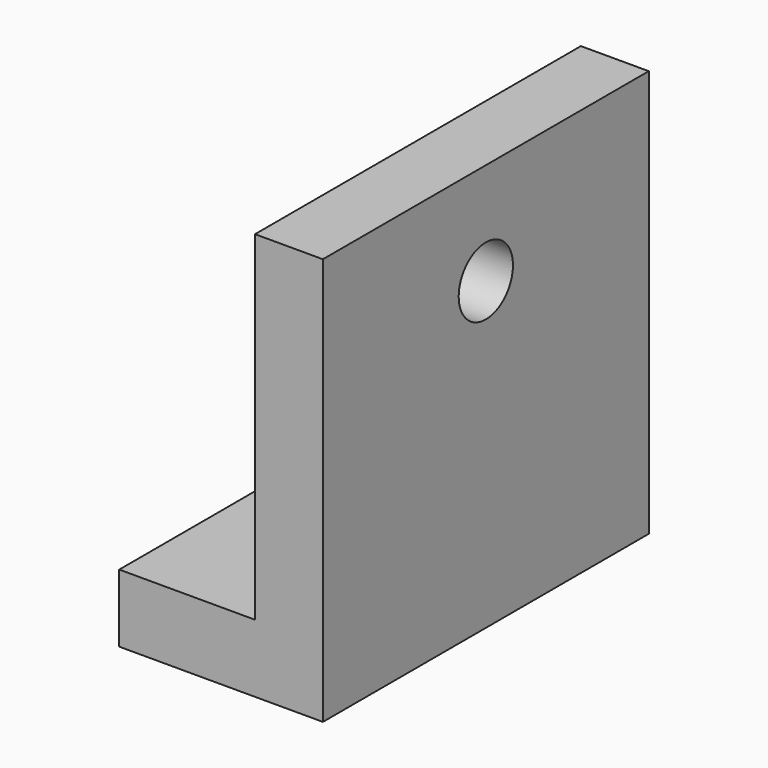
from build123d import *

# Parameters (mm, degrees)
F1_DEPTH = 76.2
F2_R     = 12.7
F3_DEPTH = 25.401
F2_R_2   = 19.05
F4_DEPTH = 6.35
F6_DEPTH = 25.401


with BuildPart() as f1:
    # F0 (on Front) → F1 (new body, symmetric)
    with BuildSketch(Plane.XZ):
        Polygon((-76.2, 0), (0, 0), (0, 152.4), (-25.4, 152.4), (-25.4, 25.4), (-76.2, 25.4), align=None)
    extrude(amount=F1_DEPTH, both=True)

    # F2 (on face) → F3 (cut, through all)
    with BuildSketch(Plane(origin=(-25.4, 0, 0), x_dir=(0, -1, 0), z_dir=(-1, 0, 0))):
        with Locations((0, 114.3)):
            Circle(F2_R)
    extrude(amount=-F3_DEPTH, mode=Mode.SUBTRACT)

    # F2 (on face) → F4 (cut)
    with BuildSketch(Plane(origin=(-25.4, 0, 0), x_dir=(0, -1, 0), z_dir=(-1, 0, 0))):
        with Locations((0, 114.3)):
            Circle(F2_R_2)
        with Locations((0, 114.3)):
            Circle(F2_R, mode=Mode.SUBTRACT)
    extrude(amount=-F4_DEPTH, mode=Mode.SUBTRACT)

    # F5 (on face) → F6 (cut, through all)
    with BuildSketch(Plane.XY.offset(25.4)):
        with BuildLine():
            Line((-76.2, 12.7), (-76.2, 0))
            Line((-76.2, 0), (-76.2, -12.7))
            Line((-76.2, -12.7), (-63.5, -12.7))
            ThreePointArc((-63.5, -12.7), (-50.8, 0), (-63.5, 12.7))
            Line((-63.5, 12.7), (-76.2, 12.7))
        make_face()
    extrude(amount=-F6_DEPTH, mode=Mode.SUBTRACT)


solid = f1.part
